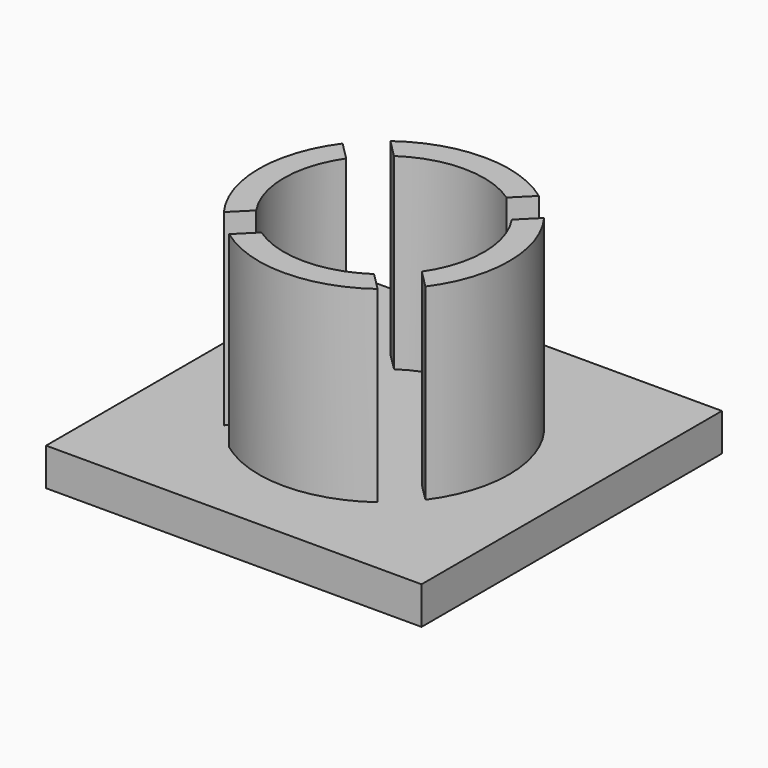
from build123d import *

# Parameters (mm, degrees)
F0_W     = 30
F0_H     = 30
F1_DEPTH = 3
F2_R     = 10
F2_R_2   = 8
F3_DEPTH = 15
F5_DEPTH = 15


with BuildPart() as f1:
    # F0 (on Top) → F1 (new body)
    with BuildSketch(Plane.XY):
        Rectangle(F0_W, F0_H)
    extrude(amount=F1_DEPTH)

    # F2 (on face) → F3 (join)
    with BuildSketch(Plane.XY.offset(3)):
        Circle(F2_R)
        Circle(F2_R_2, mode=Mode.SUBTRACT)
    extrude(amount=F3_DEPTH)

    # F4 (on face) → F5 (cut, through all)
    with BuildSketch(Plane.XY.offset(18)):
        with BuildLine():
            Line((-4.495868, 6.617188), (-5.930406, 8.051726))
            ThreePointArc((-5.930406, 8.051726), (-7.071068, 7.071068), (-8.051726, 5.930406))
            Line((-8.051726, 5.930406), (-6.617188, 4.495868))
            ThreePointArc((-6.617188, 4.495868), (-5.656854, 5.656854), (-4.495868, 6.617188))
        make_face()
        with BuildLine():
            ThreePointArc((8.051726, 5.930406), (7.071068, 7.071068), (5.930406, 8.051726))
            Line((5.930406, 8.051726), (4.495868, 6.617188))
            ThreePointArc((4.495868, 6.617188), (5.656854, 5.656854), (6.617188, 4.495868))
            Line((6.617188, 4.495868), (8.051726, 5.930406))
        make_face()
        with BuildLine():
            ThreePointArc((5.930406, -8.051726), (7.071068, -7.071068), (8.051726, -5.930406))
            Line((8.051726, -5.930406), (6.617188, -4.495868))
            ThreePointArc((6.617188, -4.495868), (5.656854, -5.656854), (4.495868, -6.617188))
            Line((4.495868, -6.617188), (5.930406, -8.051726))
        make_face()
        with BuildLine():
            Line((-6.617188, -4.495868), (-8.051726, -5.930406))
            ThreePointArc((-8.051726, -5.930406), (-7.071068, -7.071068), (-5.930406, -8.051726))
            Line((-5.930406, -8.051726), (-4.495868, -6.617188))
            ThreePointArc((-4.495868, -6.617188), (-5.656854, -5.656854), (-6.617188, -4.495868))
        make_face()
    extrude(amount=-F5_DEPTH, mode=Mode.SUBTRACT)


solid = f1.part
